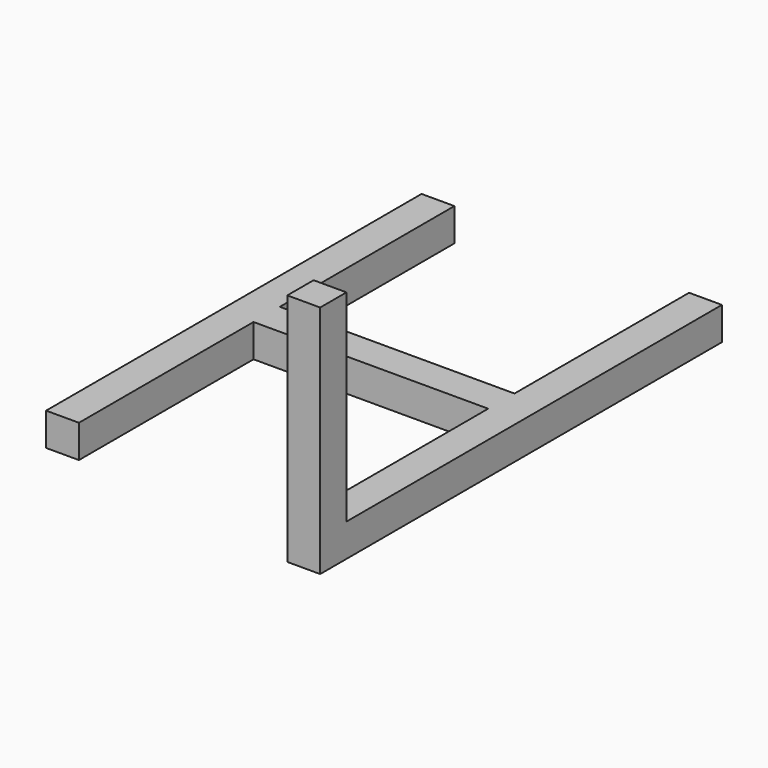
from build123d import *

# Parameters (mm, degrees)
F0_W     = 70
F0_H     = 70
F1_DEPTH = 1000
F3_DEPTH = 500
F4_W     = 70
F4_H     = 70
F5_DEPTH = 535
F6_W     = 70
F6_H     = 70
F7_DEPTH = 465
F8_W     = 70
F8_H     = 70
F9_DEPTH = 500


with BuildPart() as f1:
    # F0 (on Front) → F1 (new body)
    with BuildSketch(Plane.XZ):
        Rectangle(F0_W, F0_H)
    extrude(amount=F1_DEPTH)

    # F2 (on face) → F3 (join)
    with BuildSketch(Plane.YZ.offset(35)):
        Polygon((-465, 35), (-500, 35), (-535, 35), (-535, -35), (-465, -35), align=None)
    extrude(amount=F3_DEPTH)

    # F4 (on face) → F5 (join)
    with BuildSketch(Plane.XZ.offset(535)):
        with Locations((570, 0)):
            Rectangle(F4_W, F4_H)
    extrude(amount=-F5_DEPTH)

    # F6 (on face) → F7 (join)
    with BuildSketch(Plane.XZ.offset(535)):
        with Locations((570, 0)):
            Rectangle(F6_W, F6_H)
    extrude(amount=F7_DEPTH)

    # F8 (on face) → F9 (join)
    with BuildSketch(Plane(origin=(0, 0, -35), x_dir=(1, 0, 0), z_dir=(0, 0, -1))):
        with Locations((570, 1035)):
            Rectangle(F8_W, F8_H)
    extrude(amount=-F9_DEPTH)


solid = f1.part
